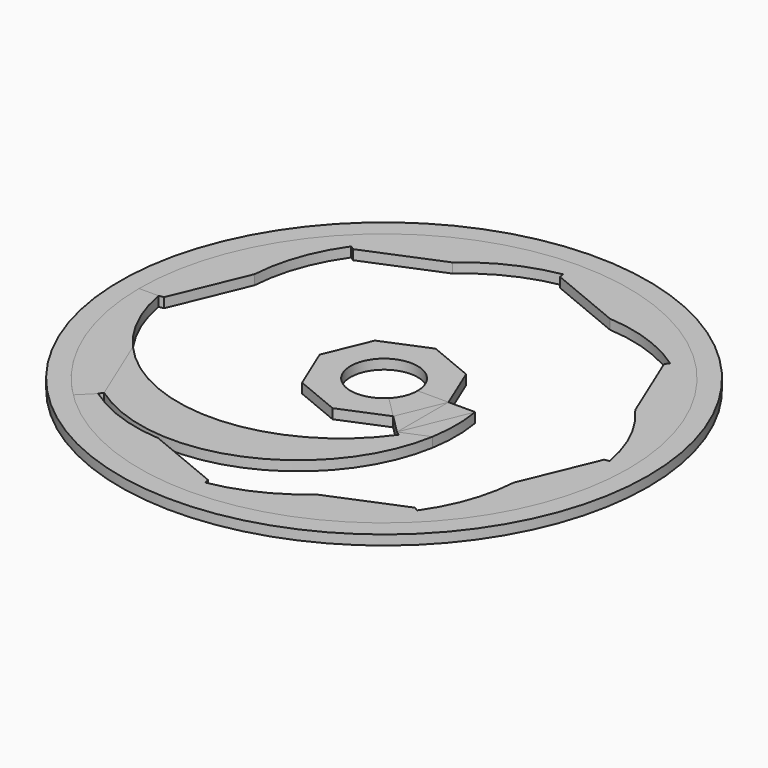
from build123d import *

# Parameters (mm, degrees)
F2_DEPTH  = 4
F3_DEPTH  = 4
F4_DEPTH  = 4
F5_DEPTH  = 4
F6_DEPTH  = 4
F7_DEPTH  = 4
F8_DEPTH  = 4
F9_DEPTH  = 4
F1_R      = 108
F10_DEPTH = 4


with BuildPart() as f2:
    # F1 (on Top) → F2 (new body)
    with BuildSketch(Plane.XY):
        with BuildLine():
            Line((91.9711971193, 0.3382039575), (99.9994280888, 0.3382039575))
            ThreePointArc((99.9994280888, 0.3382039575), (92.2579998228, 38.5805840897), (70.4711274046, 70.9494200281))
            Line((70.4711274046, 70.9494200281), (64.7943108452, 65.2726034686))
            Line((64.7943108452, 65.2726034686), (63.6396103068, 63.6396103068))
            Line((63.6396103068, 63.6396103068), (76.2813507115, 33.1197491698))
            ThreePointArc((76.2813507115, 33.1197491698), (86.4066619055, 17.8204119149), (91.9711971193, 0.3382039575))
        make_face()
        with BuildLine():
            Line((64.7943108452, 65.2726034686), (70.4711274046, 70.9494200281))
            ThreePointArc((70.4711274046, 70.9494200281), (37.9556646615, 92.5168499253), (-0.3382039575, 99.9994280888))
            Line((-0.3382039575, 99.9994280888), (-0.3382039575, 91.9711971193))
            Line((-0.3382039575, 91.9711971193), (0, 90))
            Line((0, 90), (30.519861137, 77.3582595953))
            ThreePointArc((30.519861137, 77.3582595953), (48.4978024645, 73.6996706817), (64.7943108452, 65.2726034686))
        make_face()
        with BuildLine():
            Line((-0.3382039575, 91.9711971193), (-0.3382039575, 99.9994280888))
            ThreePointArc((-0.3382039575, 99.9994280888), (-38.5805840897, 92.2579998228), (-70.9494200281, 70.4711274046))
            Line((-70.9494200281, 70.4711274046), (-65.2726034686, 64.7943108452))
            Line((-65.2726034686, 64.7943108452), (-63.6396103068, 63.6396103068))
            Line((-63.6396103068, 63.6396103068), (-33.1197491698, 76.2813507115))
            ThreePointArc((-33.1197491698, 76.2813507115), (-17.8204119149, 86.4066619055), (-0.3382039575, 91.9711971193))
        make_face()
        with BuildLine():
            Line((-65.2726034686, 64.7943108452), (-70.9494200281, 70.4711274046))
            ThreePointArc((-70.9494200281, 70.4711274046), (-92.5168499253, 37.9556646615), (-99.9994280888, -0.3382039575))
            Line((-99.9994280888, -0.3382039575), (-91.9711971193, -0.3382039575))
            Line((-91.9711971193, -0.3382039575), (-90, 0))
            Line((-90, 0), (-77.3582595953, 30.519861137))
            ThreePointArc((-77.3582595953, 30.519861137), (-73.6996706817, 48.4978024645), (-65.2726034686, 64.7943108452))
        make_face()
        with BuildLine():
            ThreePointArc((-99.9994280888, -0.3382039575), (-92.2579998228, -38.5805840897), (-70.4711274046, -70.9494200281))
            Line((-70.4711274046, -70.9494200281), (-64.7943108452, -65.2726034686))
            Line((-64.7943108452, -65.2726034686), (-63.6396103068, -63.6396103068))
            Line((-63.6396103068, -63.6396103068), (-76.2813507115, -33.1197491698))
            ThreePointArc((-76.2813507115, -33.1197491698), (-86.4066619055, -17.8204119149), (-91.9711971193, -0.3382039575))
            Line((-91.9711971193, -0.3382039575), (-99.9994280888, -0.3382039575))
        make_face()
        with BuildLine():
            ThreePointArc((-70.4711274046, -70.9494200281), (-37.9556646615, -92.5168499253), (0.3382039575, -99.9994280888))
            Line((0.3382039575, -99.9994280888), (0.3382039575, -91.9711971193))
            Line((0.3382039575, -91.9711971193), (0, -90))
            Line((0, -90), (-30.519861137, -77.3582595953))
            ThreePointArc((-30.519861137, -77.3582595953), (-48.4978024645, -73.6996706817), (-64.7943108452, -65.2726034686))
            Line((-64.7943108452, -65.2726034686), (-70.4711274046, -70.9494200281))
        make_face()
        with BuildLine():
            ThreePointArc((0.3382039575, -99.9994280888), (38.5805840897, -92.2579998228), (70.9494200281, -70.4711274046))
            Line((70.9494200281, -70.4711274046), (65.2726034686, -64.7943108452))
            Line((65.2726034686, -64.7943108452), (63.6396103068, -63.6396103068))
            Line((63.6396103068, -63.6396103068), (33.1197491698, -76.2813507115))
            ThreePointArc((33.1197491698, -76.2813507115), (17.8204119149, -86.4066619055), (0.3382039575, -91.9711971193))
            Line((0.3382039575, -91.9711971193), (0.3382039575, -99.9994280888))
        make_face()
        with BuildLine():
            ThreePointArc((70.9494200281, -70.4711274046), (92.4525337749, -38.1120584408), (100, 0))
            ThreePointArc((100, 0), (99.9998570221, 0.1691022205), (99.9994280888, 0.3382039575))
            Line((99.9994280888, 0.3382039575), (91.9711971193, 0.3382039575))
            Line((91.9711971193, 0.3382039575), (90, 0))
            Line((90, 0), (77.3582595953, -30.519861137))
            ThreePointArc((77.3582595953, -30.519861137), (73.6996706817, -48.4978024645), (65.2726034686, -64.7943108452))
            Line((65.2726034686, -64.7943108452), (70.9494200281, -70.4711274046))
        make_face()
    extrude(amount=F2_DEPTH)


with BuildPart() as f3:
    # F1 (on Top) → F3 (new body)
    with BuildSketch(Plane.XY):
        with BuildLine():
            Line((-76.2813507115, -33.1197491698), (-63.6396103068, -63.6396103068))
            ThreePointArc((-63.6396103068, -63.6396103068), (-1.6507102116, -70.5732742468), (37.2792206136, -21.8376618407))
            Line((37.2792206136, -21.8376618407), (26.3603896932, -26.3603896932))
            Line((26.3603896932, -26.3603896932), (27.9933828551, -27.5150902316))
            ThreePointArc((27.9933828551, -27.5150902316), (-22.7875050087, -55.554723072), (-76.2813507115, -33.1197491698))
        make_face()
    extrude(amount=F3_DEPTH)


with BuildPart() as f4:
    # F1 (on Top) → F4 (new body)
    with BuildSketch(Plane.XY):
        with BuildLine():
            Line((26.3603896932, -26.3603896932), (37.2792206136, -21.8376618407))
            ThreePointArc((37.2792206136, -21.8376618407), (38.2091144761, -10.9188309204), (37.2792206136, 0))
            Line((37.2792206136, 0), (26.3603896932, -26.3603896932))
        make_face()
    extrude(amount=F4_DEPTH)


with BuildPart() as f5:
    # F1 (on Top) → F5 (new body)
    with BuildSketch(Plane.XY):
        Polygon((26.3603896932, -26.3603896932), (37.2792206136, 0), (26.3603896932, 0), align=None)
    extrude(amount=F5_DEPTH)


with BuildPart() as f6:
    # F1 (on Top) → F6 (new body)
    with BuildSketch(Plane.XY):
        Polygon((18.6396103068, -18.6396103068), (26.3603896932, -26.3603896932), (26.3603896932, 0), align=None)
    extrude(amount=F6_DEPTH)


with BuildPart() as f7:
    # F1 (on Top) → F7 (new body)
    with BuildSketch(Plane.XY):
        with BuildLine():
            Line((0, 26.3603896932), (-18.6396103068, 18.6396103068))
            Line((-18.6396103068, 18.6396103068), (-26.3603896932, 0))
            Line((-26.3603896932, 0), (-18.6396103068, -18.6396103068))
            Line((-18.6396103068, -18.6396103068), (0, -26.3603896932))
            Line((0, -26.3603896932), (18.6396103068, -18.6396103068))
            Line((18.6396103068, -18.6396103068), (9.7017045802, -9.7017045802))
            ThreePointArc((9.7017045802, -9.7017045802), (-12.6758879006, 5.2505246836), (13.7202821954, 0))
            Line((13.7202821954, 0), (26.3603896932, 0))
            Line((26.3603896932, 0), (18.6396103068, 18.6396103068))
            Line((18.6396103068, 18.6396103068), (0, 26.3603896932))
        make_face()
        with BuildLine():
            Line((18.6396103068, -18.6396103068), (26.3603896932, 0))
            Line((26.3603896932, 0), (13.7202821954, 0))
            ThreePointArc((13.7202821954, 0), (12.6758879006, -5.2505246836), (9.7017045802, -9.7017045802))
            Line((9.7017045802, -9.7017045802), (18.6396103068, -18.6396103068))
        make_face()
    extrude(amount=F7_DEPTH)


with BuildPart() as f8:
    # F1 (on Top) → F8 (new body)
    with BuildSketch(Plane.XY):
        with BuildLine():
            ThreePointArc((-99.9994280888, -0.3382039575), (-92.2579998228, -38.5805840897), (-70.4711274046, -70.9494200281))
            Line((-70.4711274046, -70.9494200281), (-64.7943108452, -65.2726034686))
            Line((-64.7943108452, -65.2726034686), (-63.6396103068, -63.6396103068))
            Line((-63.6396103068, -63.6396103068), (-76.2813507115, -33.1197491698))
            ThreePointArc((-76.2813507115, -33.1197491698), (-86.4066619055, -17.8204119149), (-91.9711971193, -0.3382039575))
            Line((-91.9711971193, -0.3382039575), (-99.9994280888, -0.3382039575))
        make_face()
    extrude(amount=F8_DEPTH)


with BuildPart() as f9:
    # F1 (on Top) → F9 (new body)
    with BuildSketch(Plane.XY):
        with BuildLine():
            Line((18.6396103068, -18.6396103068), (26.3603896932, 0))
            Line((26.3603896932, 0), (13.7202821954, 0))
            ThreePointArc((13.7202821954, 0), (12.6758879006, -5.2505246836), (9.7017045802, -9.7017045802))
            Line((9.7017045802, -9.7017045802), (18.6396103068, -18.6396103068))
        make_face()
    extrude(amount=F9_DEPTH)


with BuildPart() as f10:
    # F1 (on Top) → F10 (new body)
    with BuildSketch(Plane.XY):
        Circle(F1_R)
        with BuildLine():
            ThreePointArc((99.9994280888, 0.3382039575), (99.9998570221, 0.1691022205), (100, 0))
            ThreePointArc((100, 0), (92.4525337749, -38.1120584408), (70.9494200281, -70.4711274046))
            ThreePointArc((70.9494200281, -70.4711274046), (38.5805840897, -92.2579998228), (0.3382039575, -99.9994280888))
            ThreePointArc((0.3382039575, -99.9994280888), (-37.9556646615, -92.5168499253), (-70.4711274046, -70.9494200281))
            ThreePointArc((-70.4711274046, -70.9494200281), (-92.2579998228, -38.5805840897), (-99.9994280888, -0.3382039575))
            ThreePointArc((-99.9994280888, -0.3382039575), (-92.5168499253, 37.9556646615), (-70.9494200281, 70.4711274046))
            ThreePointArc((-70.9494200281, 70.4711274046), (-38.5805840897, 92.2579998228), (-0.3382039575, 99.9994280888))
            ThreePointArc((-0.3382039575, 99.9994280888), (37.9556646615, 92.5168499253), (70.4711274046, 70.9494200281))
            ThreePointArc((70.4711274046, 70.9494200281), (92.2579998228, 38.5805840897), (99.9994280888, 0.3382039575))
        make_face(mode=Mode.SUBTRACT)
    extrude(amount=F10_DEPTH)


solid = Compound([f2.part, f3.part, f4.part, f5.part, f6.part, f7.part, f8.part, f9.part, f10.part])
